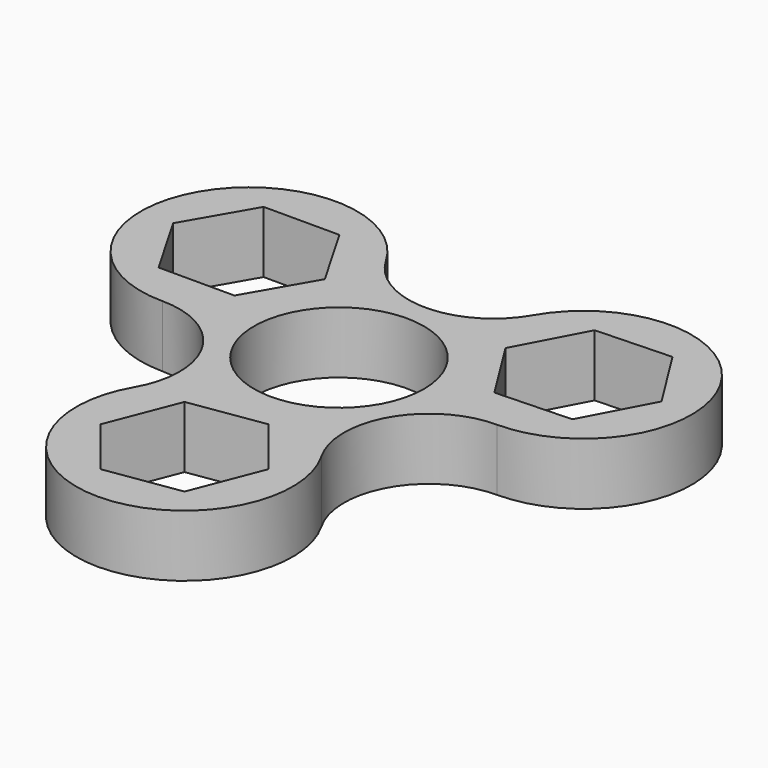
from build123d import *

# Parameters (mm, degrees)
F0_R     = 11
F1_DEPTH = 8


with BuildPart() as f1:
    # F0 (on Top) → F1 (new body)
    with BuildSketch(Plane.XY):
        with BuildLine():
            ThreePointArc((9.526279, 19.5), (0, 14), (-9.526279, 19.5))
            ThreePointArc((-9.526279, 19.5), (-33.774991, 19.5), (-21.650635, -1.5))
            ThreePointArc((-21.650635, -1.5), (-12.124356, -7), (-12.124356, -18))
            ThreePointArc((-12.124356, -18), (0, -39), (12.124356, -18))
            ThreePointArc((12.124356, -18), (12.124356, -7), (21.650635, -1.5))
            ThreePointArc((21.650635, -1.5), (33.774991, 19.5), (9.526279, 19.5))
        make_face()
        Polygon((3.57134, -15.857852), (9.703002, -23.521797), (6.131662, -32.663945), (-3.57134, -34.142148), (-9.703002, -26.478203), (-6.131662, -17.336055), align=None, mode=Mode.SUBTRACT)
        Polygon((-16.743158, 21), (-11.835681, 12.5), (-16.743158, 4), (-26.558112, 4), (-31.46559, 12.5), (-26.558112, 21), align=None, mode=Mode.SUBTRACT)
        Circle(F0_R, mode=Mode.SUBTRACT)
        Polygon((16.435203, 20.814602), (26.243575, 21.173997), (31.459007, 12.859396), (26.866067, 4.185398), (17.057695, 3.826003), (11.842263, 12.140604), align=None, mode=Mode.SUBTRACT)
    extrude(amount=F1_DEPTH)


solid = f1.part
